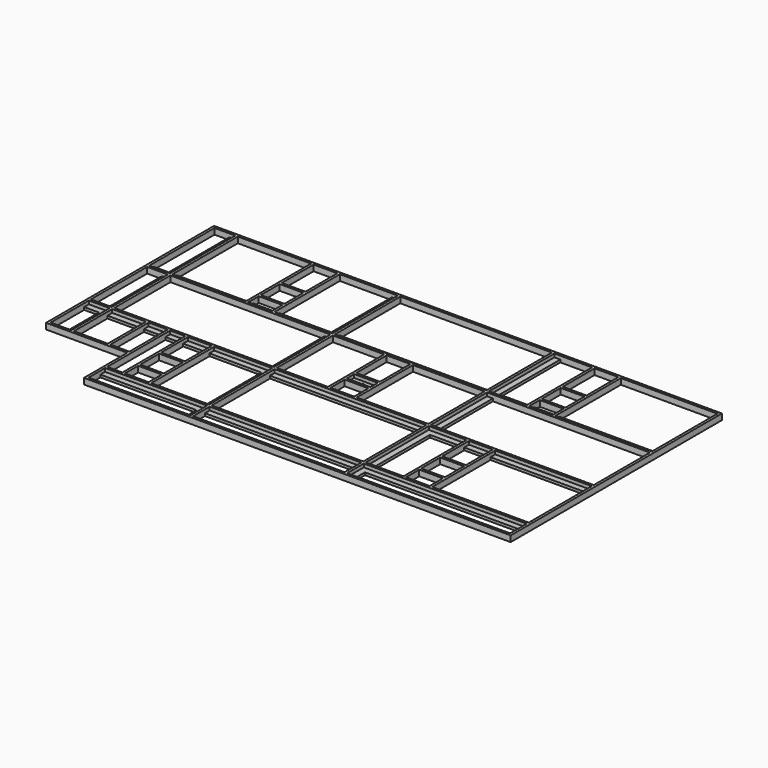
from build123d import *

# Parameters (mm, degrees)
F0_W     = 38.1
F0_H     = 38.1
F0_W_2   = 88.9
F0_H_2   = 88.9
F0_H_3   = 1136.65
F0_H_4   = 222.25
F0_H_5   = 1054.1
F0_W_3   = 355.6
F0_H_6   = 1092.2
F0_W_4   = 222.25
F0_H_7   = 628.65
F0_W_5   = 2273.3
F1_DEPTH = 88.9
F0_H_8   = 139.7
F0_R     = 19.05
F0_W_6   = 781.05
F0_W_7   = 476.25
F0_W_8   = 1447.8
F0_W_9   = 1441.45
F0_W_10  = 2355.85
F0_W_11  = 228.6
F0_W_12  = 1098.55
F0_W_13  = 285.75
F0_W_14  = 508
F2_DEPTH = 38.1
F3_DEPTH = 88.9


with BuildPart() as f1:
    # F0 (on Top) → F1 (new body)
    with BuildSketch(Plane.XY):
        Polygon((-3460.75, 1943.1), (-3422.65, 1943.1), (-2324.1, 1943.1), (-2286, 1943.1), (-1930.4, 1943.1), (-1892.3, 1943.1), (-1111.25, 1943.1), (-1022.35, 1943.1), (-984.25, 1943.1), (1289.05, 1943.1), (1327.15, 1943.1), (1416.05, 1943.1), (1892.3, 1943.1), (1930.4, 1943.1), (2286, 1943.1), (2324.1, 1943.1), (3771.9, 1943.1), (3810, 1943.1), (3810, 1981.2), (-3771.9, 1981.2), (-3771.9, 1943.1), (-3549.65, 1943.1), align=None)
        with Locations((-2571.75, -1962.15)):
            Rectangle(F0_W, F0_H)
        Polygon((-2590.8, -1130.3), (-2590.8, -1168.4), (-2590.8, -1593.85), (-2552.7, -1593.85), (-2552.7, -1130.3), align=None)
        Polygon((-3810, -1168.4), (-3549.65, -1168.4), (-3549.65, -1130.3), (-3771.9, -1130.3), (-3771.9, -501.65), (-3810, -501.65), align=None)
        with Locations((-3505.2, -1149.35)):
            Rectangle(F0_W_2, F0_H)
        with Locations((-3790.95, -393.7)):
            Rectangle(F0_W, F0_H)
        with Locations((-2571.75, -1612.9)):
            Rectangle(F0_W, F0_H)
        with Locations((-3441.7, -1149.35)):
            Rectangle(F0_W, F0_H)
        Polygon((3771.9, -1943.1), (3810, -1943.1), (3810, 1943.1), (3771.9, 1943.1), (3771.9, 806.45), (3771.9, 717.55), (3771.9, 679.45), (3771.9, -374.65), (3771.9, -412.75), (3771.9, -501.65), (3771.9, -1593.85), (3771.9, -1631.95), (3771.9, -1720.85), align=None)
        with Locations((-3790.95, 762)):
            Rectangle(F0_W, F0_H_2)
        with Locations((-2571.75, -1676.4)):
            Rectangle(F0_W, F0_H_2)
        with Locations((-3790.95, 1374.775)):
            Rectangle(F0_W, F0_H_3)
        Polygon((-1111.25, -1943.1), (-2552.7, -1943.1), (-2552.7, -1981.2), (3810, -1981.2), (3810, -1943.1), (3771.9, -1943.1), (1416.05, -1943.1), (1327.15, -1943.1), (1289.05, -1943.1), (-984.25, -1943.1), (-1022.35, -1943.1), align=None)
        with Locations((-3790.95, 698.5)):
            Rectangle(F0_W, F0_H)
        with Locations((-2571.75, -1831.975)):
            Rectangle(F0_W, F0_H_4)
        with Locations((-3790.95, 152.4)):
            Rectangle(F0_W, F0_H_5)
        with Locations((-3790.95, 1962.15)):
            Rectangle(F0_W, F0_H)
        with Locations((-3790.95, -457.2)):
            Rectangle(F0_W, F0_H_2)
        Polygon((-3422.65, -1168.4), (-2590.8, -1168.4), (-2590.8, -1130.3), (-2876.55, -1130.3), (-2914.65, -1130.3), (-3422.65, -1130.3), align=None)
        Polygon((-215.9, 679.45), (-215.9, -374.65), (-177.8, -374.65), (-177.8, -107.95), (-177.8, -69.85), (-177.8, 69.85), (-177.8, 107.95), (-177.8, 679.45), align=None)
        Polygon((177.8, -374.65), (215.9, -374.65), (215.9, 679.45), (177.8, 679.45), (177.8, 107.95), (177.8, 69.85), (177.8, -69.85), (177.8, -107.95), align=None)
        with Locations((0, 88.9)):
            Rectangle(F0_W_3, F0_H)
        with Locations((0, -88.9)):
            Rectangle(F0_W_3, F0_H)
        Polygon((-984.25, -374.65), (-984.25, -412.75), (1289.05, -412.75), (1289.05, -374.65), (215.9, -374.65), (177.8, -374.65), (-177.8, -374.65), (-215.9, -374.65), align=None)
        with Locations((1308.1, -393.7)):
            Rectangle(F0_W, F0_H)
        with Locations((1371.6, -393.7)):
            Rectangle(F0_W_2, F0_H)
        Polygon((1416.05, -374.65), (1416.05, -412.75), (1892.3, -412.75), (1930.4, -412.75), (2286, -412.75), (2324.1, -412.75), (3771.9, -412.75), (3771.9, -374.65), align=None)
        with Locations((1308.1, 152.4)):
            Rectangle(F0_W, F0_H_5)
        Polygon((-984.25, 717.55), (-984.25, 679.45), (-215.9, 679.45), (-177.8, 679.45), (177.8, 679.45), (215.9, 679.45), (1289.05, 679.45), (1289.05, 717.55), align=None)
        with Locations((1308.1, 698.5)):
            Rectangle(F0_W, F0_H)
        with Locations((1371.6, 698.5)):
            Rectangle(F0_W_2, F0_H)
        Polygon((3771.9, 679.45), (3771.9, 717.55), (2324.1, 717.55), (2286, 717.55), (1930.4, 717.55), (1892.3, 717.55), (1416.05, 717.55), (1416.05, 679.45), align=None)
        Polygon((1289.05, 806.45), (1289.05, 717.55), (1327.15, 717.55), (1327.15, 1943.1), (1289.05, 1943.1), align=None)
        with Locations((-1003.3, 698.5)):
            Rectangle(F0_W, F0_H)
        Polygon((-1022.35, 1943.1), (-1022.35, 717.55), (-984.25, 717.55), (-984.25, 806.45), (-984.25, 1943.1), align=None)
        with Locations((-1003.3, 152.4)):
            Rectangle(F0_W, F0_H_5)
        with Locations((-1003.3, -393.7)):
            Rectangle(F0_W, F0_H)
        with Locations((-1066.8, -393.7)):
            Rectangle(F0_W_2, F0_H)
        Polygon((-2876.55, -412.75), (-2590.8, -412.75), (-2552.7, -412.75), (-2324.1, -412.75), (-2286, -412.75), (-1930.4, -412.75), (-1892.3, -412.75), (-1111.25, -412.75), (-1111.25, -374.65), (-3397.25, -374.65), (-3422.65, -374.65), (-3422.65, -412.75), (-2914.65, -412.75), align=None)
        Polygon((-1022.35, -412.75), (-1022.35, -1593.85), (-984.25, -1593.85), (-984.25, -501.65), (-984.25, -412.75), align=None)
        with Locations((1308.1, -457.2)):
            Rectangle(F0_W, F0_H_2)
        with Locations((1308.1, -1047.75)):
            Rectangle(F0_W, F0_H_6)
        with Locations((-1066.8, 698.5)):
            Rectangle(F0_W_2, F0_H)
        Polygon((-3422.65, 717.55), (-3422.65, 679.45), (-3397.25, 679.45), (-1111.25, 679.45), (-1111.25, 717.55), (-1892.3, 717.55), (-1930.4, 717.55), (-2286, 717.55), (-2324.1, 717.55), align=None)
        with Locations((-3441.7, 152.4)):
            Rectangle(F0_W, F0_H_5)
        with Locations((-3441.7, 698.5)):
            Rectangle(F0_W, F0_H)
        with Locations((-3505.2, 698.5)):
            Rectangle(F0_W_2, F0_H)
        with Locations((-3660.775, 698.5)):
            Rectangle(F0_W_4, F0_H)
        with Locations((-3505.2, -393.7)):
            Rectangle(F0_W_2, F0_H)
        with Locations((-3660.775, -393.7)):
            Rectangle(F0_W_4, F0_H)
        with Locations((-3441.7, -393.7)):
            Rectangle(F0_W, F0_H)
        with Locations((-3441.7, -457.2)):
            Rectangle(F0_W, F0_H_2)
        with Locations((-3441.7, -815.975)):
            Rectangle(F0_W, F0_H_7)
        with Locations((-2305.05, -457.2)):
            Rectangle(F0_W, F0_H_2)
        with Locations((-1911.35, -457.2)):
            Rectangle(F0_W, F0_H_2)
        Polygon((-1930.4, -1346.2), (-1930.4, -1593.85), (-1892.3, -1593.85), (-1892.3, -501.65), (-1930.4, -501.65), (-1930.4, -914.4), (-1930.4, -952.5), (-1930.4, -1308.1), align=None)
        Polygon((-2324.1, -501.65), (-2324.1, -1593.85), (-2286, -1593.85), (-2286, -1346.2), (-2286, -1308.1), (-2286, -952.5), (-2286, -914.4), (-2286, -501.65), align=None)
        with Locations((-2108.2, -933.45)):
            Rectangle(F0_W_3, F0_H)
        with Locations((-2108.2, -1327.15)):
            Rectangle(F0_W_3, F0_H)
        Polygon((-2324.1, -1593.85), (-2552.7, -1593.85), (-2552.7, -1631.95), (-1111.25, -1631.95), (-1111.25, -1593.85), (-1892.3, -1593.85), (-1930.4, -1593.85), (-2286, -1593.85), align=None)
        with Locations((-1066.8, -1612.9)):
            Rectangle(F0_W_2, F0_H)
        with Locations((-1003.3, -1612.9)):
            Rectangle(F0_W, F0_H)
        with Locations((-1003.3, -1676.4)):
            Rectangle(F0_W, F0_H_2)
        with Locations((-1003.3, -1831.975)):
            Rectangle(F0_W, F0_H_4)
        with Locations((152.4, -1612.9)):
            Rectangle(F0_W_5, F0_H)
        with Locations((-3441.7, 1374.775)):
            Rectangle(F0_W, F0_H_3)
        with Locations((-3441.7, 762)):
            Rectangle(F0_W, F0_H_2)
        with Locations((-2305.05, 762)):
            Rectangle(F0_W, F0_H_2)
        Polygon((-2324.1, 1943.1), (-2324.1, 806.45), (-2286, 806.45), (-2286, 914.4), (-2286, 952.5), (-2286, 1308.1), (-2286, 1346.2), (-2286, 1943.1), align=None)
        with Locations((-1911.35, 762)):
            Rectangle(F0_W, F0_H_2)
        Polygon((-1930.4, 806.45), (-1892.3, 806.45), (-1892.3, 1943.1), (-1930.4, 1943.1), (-1930.4, 1346.2), (-1930.4, 1308.1), (-1930.4, 952.5), (-1930.4, 914.4), align=None)
        with Locations((-2108.2, 933.45)):
            Rectangle(F0_W_3, F0_H)
        with Locations((-2108.2, 1327.15)):
            Rectangle(F0_W_3, F0_H)
        with Locations((1308.1, -1612.9)):
            Rectangle(F0_W, F0_H)
        with Locations((1308.1, -1676.4)):
            Rectangle(F0_W, F0_H_2)
        with Locations((1308.1, -1831.975)):
            Rectangle(F0_W, F0_H_4)
        with Locations((1371.6, -1612.9)):
            Rectangle(F0_W_2, F0_H)
        Polygon((1416.05, -1593.85), (1416.05, -1631.95), (3771.9, -1631.95), (3771.9, -1593.85), (2324.1, -1593.85), (2286, -1593.85), (1930.4, -1593.85), (1892.3, -1593.85), align=None)
        Polygon((1892.3, -501.65), (1892.3, -1593.85), (1930.4, -1593.85), (1930.4, -1346.2), (1930.4, -1308.1), (1930.4, -952.5), (1930.4, -914.4), (1930.4, -501.65), align=None)
        with Locations((2108.2, -1327.15)):
            Rectangle(F0_W_3, F0_H)
        Polygon((2286, -1593.85), (2324.1, -1593.85), (2324.1, -501.65), (2286, -501.65), (2286, -914.4), (2286, -952.5), (2286, -1308.1), (2286, -1346.2), align=None)
        with Locations((2108.2, -933.45)):
            Rectangle(F0_W_3, F0_H)
        with Locations((1911.35, 762)):
            Rectangle(F0_W, F0_H_2)
        with Locations((2305.05, 762)):
            Rectangle(F0_W, F0_H_2)
        Polygon((2324.1, 806.45), (2324.1, 1943.1), (2286, 1943.1), (2286, 1346.2), (2286, 1308.1), (2286, 952.5), (2286, 914.4), (2286, 806.45), align=None)
        with Locations((2108.2, 933.45)):
            Rectangle(F0_W_3, F0_H)
        Polygon((1930.4, 1346.2), (1930.4, 1943.1), (1892.3, 1943.1), (1892.3, 806.45), (1930.4, 806.45), (1930.4, 914.4), (1930.4, 952.5), (1930.4, 1308.1), align=None)
        with Locations((2108.2, 1327.15)):
            Rectangle(F0_W_3, F0_H)
        with Locations((1911.35, -457.2)):
            Rectangle(F0_W, F0_H_2)
        with Locations((2305.05, -457.2)):
            Rectangle(F0_W, F0_H_2)
        with Locations((-2895.6, -815.975)):
            Rectangle(F0_W, F0_H_7)
        with Locations((-2895.6, -457.2)):
            Rectangle(F0_W, F0_H_2)
    extrude(amount=F1_DEPTH)

    # F0 (on Top) → F2 (join)
    with BuildSketch(Plane.XY):
        with Locations((-1066.8, 152.4)):
            Rectangle(F0_W_2, F0_H_5)
        Rectangle(F0_W_3, F0_H_8)
        Circle(F0_R, mode=Mode.SUBTRACT)
        Polygon((-1111.25, -501.65), (-1111.25, -1593.85), (-1022.35, -1593.85), (-1022.35, -412.75), (-1111.25, -412.75), align=None)
        with Locations((-1501.775, -457.2)):
            Rectangle(F0_W_6, F0_H_2)
        with Locations((152.4, -457.2)):
            Rectangle(F0_W_5, F0_H_2)
        with Locations((1371.6, 152.4)):
            Rectangle(F0_W_2, F0_H_5)
        Polygon((1327.15, -501.65), (1327.15, -1593.85), (1416.05, -1593.85), (1416.05, -501.65), (1416.05, -412.75), (1327.15, -412.75), align=None)
        with Locations((1654.175, -457.2)):
            Rectangle(F0_W_7, F0_H_2)
        with Locations((2108.2, -457.2)):
            Rectangle(F0_W_3, F0_H_2)
        with Locations((3048, -457.2)):
            Rectangle(F0_W_8, F0_H_2)
        with Locations((3048, 762)):
            Rectangle(F0_W_8, F0_H_2)
        with Locations((2108.2, 762)):
            Rectangle(F0_W_3, F0_H_2)
        with Locations((1654.175, 762)):
            Rectangle(F0_W_7, F0_H_2)
        Polygon((1327.15, 1943.1), (1327.15, 717.55), (1416.05, 717.55), (1416.05, 806.45), (1416.05, 1943.1), align=None)
        with Locations((152.4, 762)):
            Rectangle(F0_W_5, F0_H_2)
        Polygon((-1022.35, -1631.95), (-1111.25, -1631.95), (-1111.25, -1720.85), (-1111.25, -1943.1), (-1022.35, -1943.1), (-1022.35, -1720.85), align=None)
        with Locations((-1831.975, -1676.4)):
            Rectangle(F0_W_9, F0_H_2)
        with Locations((152.4, -1676.4)):
            Rectangle(F0_W_5, F0_H_2)
        Polygon((1416.05, -1631.95), (1327.15, -1631.95), (1327.15, -1720.85), (1327.15, -1943.1), (1416.05, -1943.1), (1416.05, -1720.85), align=None)
        with Locations((2593.975, -1676.4)):
            Rectangle(F0_W_10, F0_H_2)
        with Locations((-2108.2, -457.2)):
            Rectangle(F0_W_3, F0_H_2)
        with Locations((-2438.4, -457.2)):
            Rectangle(F0_W_11, F0_H_2)
        Polygon((-3549.65, -1130.3), (-3460.75, -1130.3), (-3460.75, -501.65), (-3460.75, -412.75), (-3549.65, -412.75), (-3549.65, -501.65), align=None)
        with Locations((-3660.775, -457.2)):
            Rectangle(F0_W_4, F0_H_2)
        with Locations((-3505.2, 152.4)):
            Rectangle(F0_W_2, F0_H_5)
        with Locations((-3660.775, 762)):
            Rectangle(F0_W_4, F0_H_2)
        Polygon((-3549.65, 717.55), (-3460.75, 717.55), (-3460.75, 806.45), (-3460.75, 1943.1), (-3549.65, 1943.1), (-3549.65, 806.45), align=None)
        with Locations((-2873.375, 762)):
            Rectangle(F0_W_12, F0_H_2)
        with Locations((-2108.2, 762)):
            Rectangle(F0_W_3, F0_H_2)
        with Locations((-1501.775, 762)):
            Rectangle(F0_W_6, F0_H_2)
        Polygon((-1111.25, 806.45), (-1111.25, 717.55), (-1022.35, 717.55), (-1022.35, 1943.1), (-1111.25, 1943.1), align=None)
        with Locations((-2733.675, -457.2)):
            Rectangle(F0_W_13, F0_H_2)
        with Locations((-3168.65, -457.2)):
            Rectangle(F0_W_14, F0_H_2)
    extrude(amount=F2_DEPTH)

    # F0 (on Top) → F3 (join)
    with BuildSketch(Plane.XY):
        Polygon((-3460.75, 1943.1), (-3422.65, 1943.1), (-2324.1, 1943.1), (-2286, 1943.1), (-1930.4, 1943.1), (-1892.3, 1943.1), (-1111.25, 1943.1), (-1022.35, 1943.1), (-984.25, 1943.1), (1289.05, 1943.1), (1327.15, 1943.1), (1416.05, 1943.1), (1892.3, 1943.1), (1930.4, 1943.1), (2286, 1943.1), (2324.1, 1943.1), (3771.9, 1943.1), (3810, 1943.1), (3810, 1981.2), (-3771.9, 1981.2), (-3771.9, 1943.1), (-3549.65, 1943.1), align=None)
        with Locations((-2571.75, -1962.15)):
            Rectangle(F0_W, F0_H)
        Polygon((-2590.8, -1130.3), (-2590.8, -1168.4), (-2590.8, -1593.85), (-2552.7, -1593.85), (-2552.7, -1130.3), align=None)
        Polygon((-3810, -1168.4), (-3549.65, -1168.4), (-3549.65, -1130.3), (-3771.9, -1130.3), (-3771.9, -501.65), (-3810, -501.65), align=None)
        with Locations((-3505.2, -1149.35)):
            Rectangle(F0_W_2, F0_H)
        with Locations((-3790.95, -393.7)):
            Rectangle(F0_W, F0_H)
        with Locations((-2571.75, -1612.9)):
            Rectangle(F0_W, F0_H)
        with Locations((-3441.7, -1149.35)):
            Rectangle(F0_W, F0_H)
        Polygon((3771.9, -1943.1), (3810, -1943.1), (3810, 1943.1), (3771.9, 1943.1), (3771.9, 806.45), (3771.9, 717.55), (3771.9, 679.45), (3771.9, -374.65), (3771.9, -412.75), (3771.9, -501.65), (3771.9, -1593.85), (3771.9, -1631.95), (3771.9, -1720.85), align=None)
        with Locations((-3790.95, 762)):
            Rectangle(F0_W, F0_H_2)
        with Locations((-2571.75, -1676.4)):
            Rectangle(F0_W, F0_H_2)
        with Locations((-3790.95, 1374.775)):
            Rectangle(F0_W, F0_H_3)
        Polygon((-1111.25, -1943.1), (-2552.7, -1943.1), (-2552.7, -1981.2), (3810, -1981.2), (3810, -1943.1), (3771.9, -1943.1), (1416.05, -1943.1), (1327.15, -1943.1), (1289.05, -1943.1), (-984.25, -1943.1), (-1022.35, -1943.1), align=None)
        with Locations((-3790.95, 698.5)):
            Rectangle(F0_W, F0_H)
        with Locations((-2571.75, -1831.975)):
            Rectangle(F0_W, F0_H_4)
        with Locations((-3790.95, 152.4)):
            Rectangle(F0_W, F0_H_5)
        with Locations((-3790.95, 1962.15)):
            Rectangle(F0_W, F0_H)
        with Locations((-3790.95, -457.2)):
            Rectangle(F0_W, F0_H_2)
        Polygon((-3422.65, -1168.4), (-2590.8, -1168.4), (-2590.8, -1130.3), (-2876.55, -1130.3), (-2914.65, -1130.3), (-3422.65, -1130.3), align=None)
        with Locations((-2571.75, -815.975)):
            Rectangle(F0_W, F0_H_7)
        with Locations((-2571.75, -457.2)):
            Rectangle(F0_W, F0_H_2)
    extrude(amount=F3_DEPTH)


solid = f1.part
